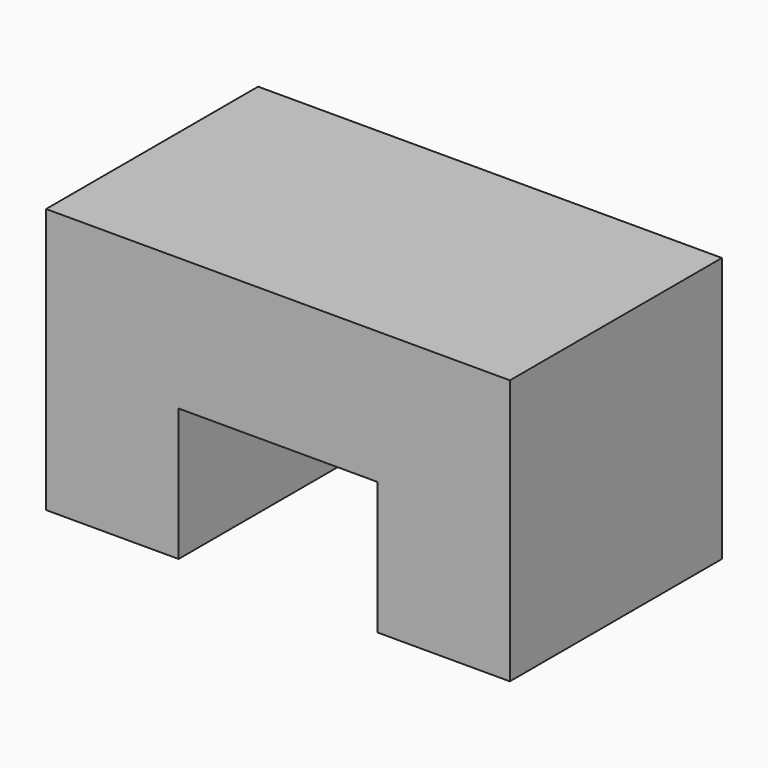
from build123d import *

# Parameters (mm, degrees)
PAD_DEPTH = 200


with BuildPart() as part:
    # Sketch → Pad (new body)
    with BuildSketch(Plane.XZ):
        Polygon((-175, 200), (-175, 0), (-75, 0), (-75, 100), (75, 100), (75, 0), (175, 0), (175, 200), align=None)
    extrude(amount=PAD_DEPTH)


solid = part.part
